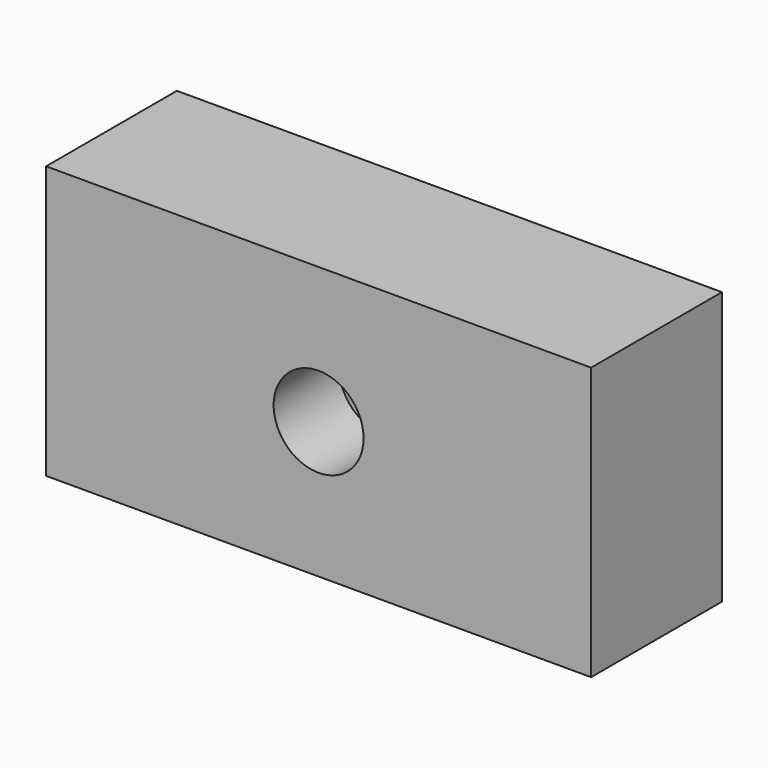
from build123d import *

# Parameters (mm, degrees)
F0_W      = 100
F0_H      = 50
F1_DEPTH  = 15
F2_R      = 8.25
F1_FACE_W = 100
F1_FACE_H = 50
F3_DEPTH  = 20


with BuildPart() as f1:
    # F0 (on Front) → F1 (new body, symmetric)
    with BuildSketch(Plane.XZ):
        Rectangle(F0_W, F0_H)
    extrude(amount=F1_DEPTH, both=True)

    # F2 (on Front) + F1_face (on face) → F3 (cut)
    with BuildSketch(Plane.XZ):
        Circle(F2_R)
    with BuildSketch(Plane.XZ.offset(15)):
        Rectangle(F1_FACE_W, F1_FACE_H)
    extrude(amount=F3_DEPTH, mode=Mode.SUBTRACT)


solid = f1.part
